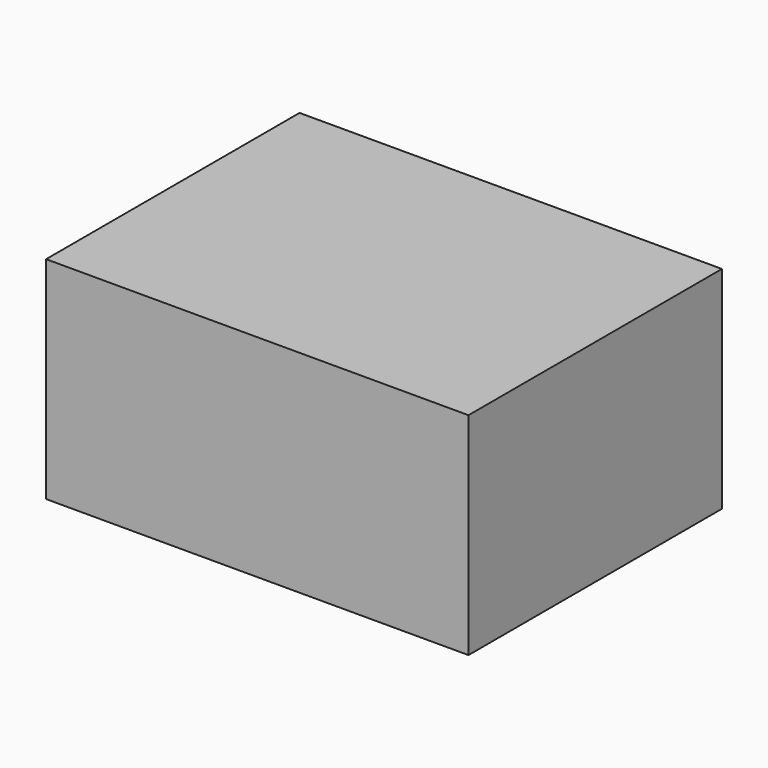
from build123d import *

# Parameters (mm, degrees)
BOX_W     = 40
BOX_H     = 30
BOX_DEPTH = 20


with BuildPart() as part:
    # Box → Box (new body)
    with BuildSketch(Plane.XY):
        with Locations((20, 15)):
            Rectangle(BOX_W, BOX_H)
    extrude(amount=BOX_DEPTH)


solid = part.part
